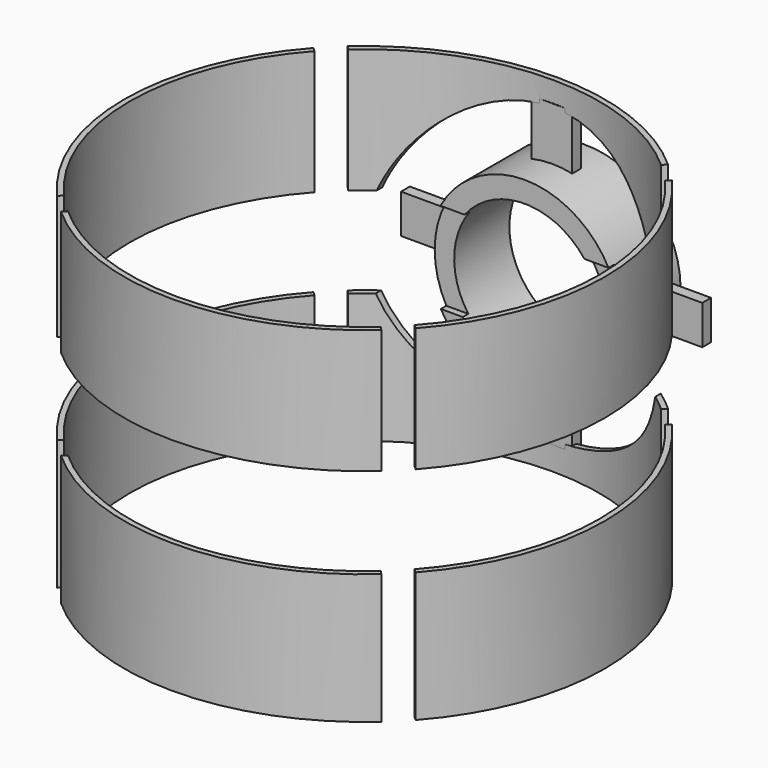
from build123d import *

# Parameters (mm, degrees)
F0_R           = 8.85
F1_DEPTH       = 12.7
F2_R           = 8.6487
F3_DEPTH       = 25.4
F4_R           = 5.3987446143
F5_DEPTH       = 25.4
F7_START       = -8.636
F6_W           = 2.0945777651
F6_H           = 1.4388835989
F7_DEPTH       = 0.4064
F6_W_2         = 2.2767148912
F6_W_3         = 1.4935249928
F6_H_2         = 2.1205339581
F6_H_3         = 2.2797814454
F9_START       = -7.366
F8_R           = 3.5108101387
F9_DEPTH       = 2.794
F10_R          = 2.7941375303
F11_DEPTH      = 10.16
F12_W          = 28.4602986649
F12_H          = 3.3404105343
F13_DEPTH      = 25.4
F13_DEPTH_BACK = 7.62
F14_R          = 0.4953
F15_DEPTH      = 40.132


with BuildPart() as f1:
    # F0 (on Top) → F1 (new body)
    with BuildSketch(Plane.XY):
        Circle(F0_R)
    extrude(amount=F1_DEPTH)

    # F2 (on face) → F3 (cut)
    with BuildSketch(Plane.XY.offset(12.7)):
        Circle(F2_R)
    extrude(amount=-F3_DEPTH, mode=Mode.SUBTRACT)

    # F4 (on Front) → F5 (cut)
    with BuildSketch(Plane.XZ):
        with Locations((0, 6.4130760729)):
            Circle(F4_R)
    extrude(amount=-F5_DEPTH, mode=Mode.SUBTRACT)

    # F6 (on Front) → F7, piece 3 (join)
    with BuildSketch(Plane.XZ.offset(F7_START)):
        with Locations((-0.0089060632, 10.8763854951)):
            Rectangle(F6_W_3, F6_H_2)
        with Locations((-0.0089060632, 2.0152161887)):
            Rectangle(F6_W_3, F6_H_3)
    extrude(amount=-F7_DEPTH)



with BuildPart() as f7:
    # F6 (on Front) → F7 (new body)
    with BuildSketch(Plane.XZ.offset(F7_START)):
        with Locations((4.4807755621, 6.5467560198)):
            Rectangle(F6_W, F6_H)
    extrude(amount=-F7_DEPTH)


with BuildPart() as f7b:
    # F6 (on Front) → F7, piece 2 (new body)
    with BuildSketch(Plane.XZ.offset(F7_START)):
        with Locations((-4.4257324189, 6.5467560198)):
            Rectangle(F6_W_2, F6_H)
    extrude(amount=-F7_DEPTH)


with BuildPart() as f1_1:
    add(f1.part)

    add(f7.part)  # F9 merges F7

    add(f7b.part)  # F9 merges F7b
    # F8 (on Front) → F9 (join)
    with BuildSketch(Plane.XZ.offset(F9_START)):
        with Locations((0, 6.4666298567)):
            Circle(F8_R)
    extrude(amount=-F9_DEPTH)

    # F10 (on Front) → F11 (cut, through all)
    with BuildSketch(Plane.XZ):
        with Locations((0, 6.410241127)):
            Circle(F10_R)
    extrude(amount=-F11_DEPTH, mode=Mode.SUBTRACT)

    # F12 (on Front) → F13 (cut, two sides)
    with BuildSketch(Plane.XZ) as f13_sk:
        with Locations((-0.3436258994, 6.4565266948)):
            Rectangle(F12_W, F12_H)
    extrude(amount=F13_DEPTH, mode=Mode.SUBTRACT)
    extrude(f13_sk.sketch, amount=-F13_DEPTH_BACK, mode=Mode.SUBTRACT)

    # F14 (on Top) → F15 (cut)
    with BuildSketch(Plane.XY):
        with Locations((6.186724716, 6.186724716)):
            Circle(F14_R)
        with Locations((6.186724716, -6.186724716)):
            Circle(F14_R)
        with Locations((-6.186724716, -6.186724716)):
            Circle(F14_R)
        with Locations((-6.186724716, 6.186724716)):
            Circle(F14_R)
    extrude(amount=F15_DEPTH, mode=Mode.SUBTRACT)


solid = f1_1.part
